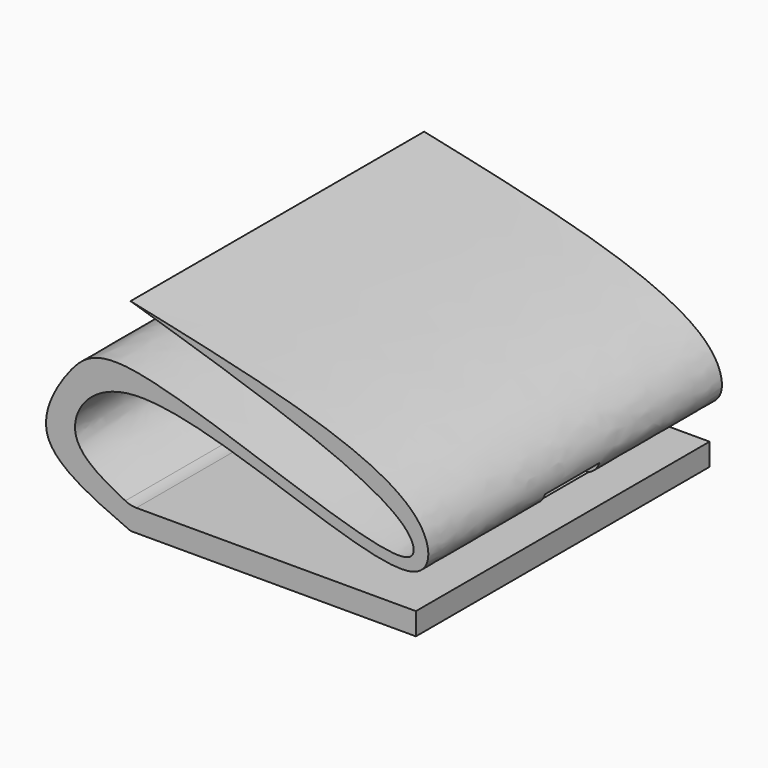
from build123d import *

# Parameters (mm, degrees)
F1_DEPTH = 76.2
F2_R     = 5.08
F3_R     = 3.81
F4_DEPTH = 4.6136262827
F5_W     = 14.0883214772
F5_H     = 3.1360406429
F6_DEPTH = 25.4


with BuildPart() as f1:
    # F0 (on Front) → F1 (new body)
    with BuildSketch(Plane.XZ):
        with BuildLine():
            Line((23.068131879, 11.2912440673), (-36.1805483699, 11.2912440673))
            add(Edge.make_bspline(
                [(-36.1805483699, 11.2912440673), (-41.4794602182, 13.9534271416), (-52.2478673, 19.3634946974), (-36.8104100947, 42.3439422272), (25.964579852, 8.4267593972), (26.8791852057, 35.1696949732), (-9.7134252339, 43.0129471591), (-36.1805483699, 48.6859045923)],
                knots=[0, 0, 0, 0, 0.1446990719, 0.2940563186, 0.5857414975, 0.7003703572, 1, 1, 1, 1], degree=3))
            add(Edge.make_bspline(
                [(-36.1805483699, 6.6776177846), (-44.0252275672, 10.097435106), (-58.1888276537, 16.2719291408), (-48.9849102081, 32.9578143327), (-37.7686598939, 41.8339794698), (23.6533602743, 13.9792842173), (22.4570472386, 30.3944800275), (-10.3782887855, 40.6371420212), (-36.1805483699, 48.6859045923)],
                knots=[0, 0, 0, 0, 0.1540141196, 0.2780731171, 0.4028777008, 0.6623152884, 0.7346447565, 1, 1, 1, 1], degree=3))
            Line((-36.1805483699, 6.6776177846), (23.068131879, 6.6776177846))
            Line((23.068131879, 6.6776177846), (23.068131879, 11.2912440673))
        make_face()
    extrude(amount=F1_DEPTH)

    # F2
    f2_edges = [f1.edges().sort_by_distance(p)[0] for p in [
        (-36.180548, -38.1, 11.291244),
    ]]
    fillet(f2_edges, radius=F2_R)

    # F3 (on face) → F4 (cut, through all)
    with BuildSketch(Plane(origin=(0, 0, 6.6776177846), x_dir=(1, 0, 0), z_dir=(0, 0, -1))):
        with Locations((-10.0855482742, 25.4)):
            Circle(F3_R)
        with Locations((-10.0855482742, 50.8)):
            Circle(F3_R)
    extrude(amount=-F4_DEPTH, mode=Mode.SUBTRACT)

    # F5 (on Right) → F6 (cut)
    with BuildSketch(Plane.YZ):
        with Locations((-38.5402534157, 20.0977800414)):
            Rectangle(F5_W, F5_H)
    extrude(amount=F6_DEPTH, mode=Mode.SUBTRACT)


solid = f1.part
